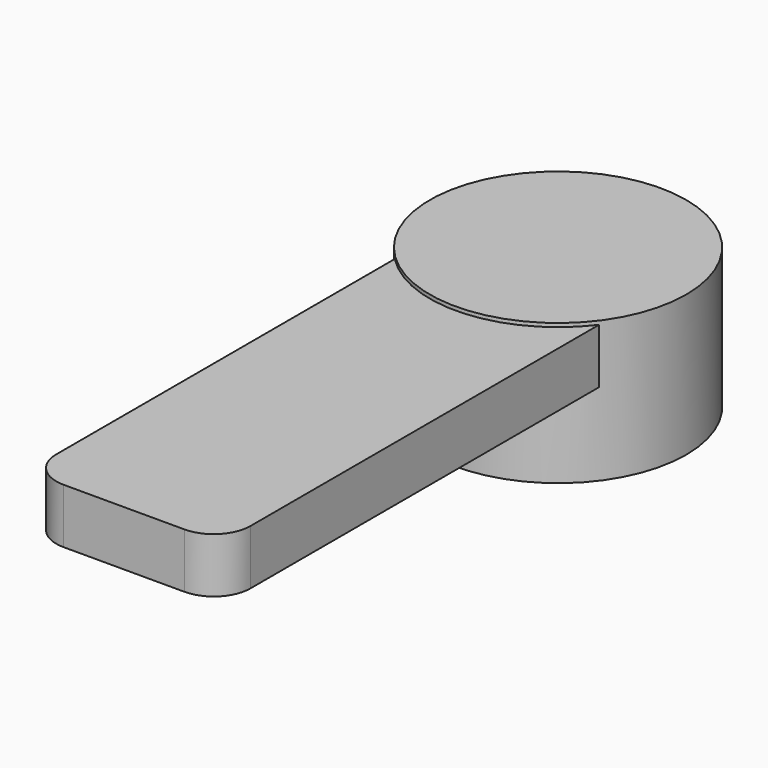
from build123d import *

# Parameters (mm, degrees)
CYLINDER006_R     = 2.25
CYLINDER006_DEPTH = 3
BOX001_W          = 5.3
BOX001_H          = 13.5
BOX001_DEPTH      = 1.5
FILLET_R          = 1
CYLINDER005_R     = 3.5
CYLINDER005_DEPTH = 3.85


with BuildPart() as cylinder006:
    # Cylinder006 → Cylinder006 (new body)
    with BuildSketch(Plane.XY):
        Circle(CYLINDER006_R)
    extrude(amount=CYLINDER006_DEPTH)


with BuildPart() as fillet_body:
    # Box001 → Box001 (new body)
    with BuildSketch(Plane(origin=(-2.5, -15, 2.25), x_dir=(1, 0, 0), z_dir=(0, 0, 1))):
        with Locations((2.65, 6.75)):
            Rectangle(BOX001_W, BOX001_H)
    extrude(amount=BOX001_DEPTH)

    # Fillet
    fillet_edges = [fillet_body.edges().sort_by_distance(p)[0] for p in [
        (-2.5, -15, 3),
        (2.8, -15, 3),
    ]]
    fillet(fillet_edges, radius=FILLET_R)


with BuildPart() as servoarmsingle:
    # Cylinder005 → Cylinder005 (new body)
    with BuildSketch(Plane.XY):
        Circle(CYLINDER005_R)
    extrude(amount=CYLINDER005_DEPTH)

    # Fusion003: union Fillet body
    add(fillet_body.part)

    # Cut001: cut Cylinder006
    add(cylinder006.part, mode=Mode.SUBTRACT)


solid = servoarmsingle.part
